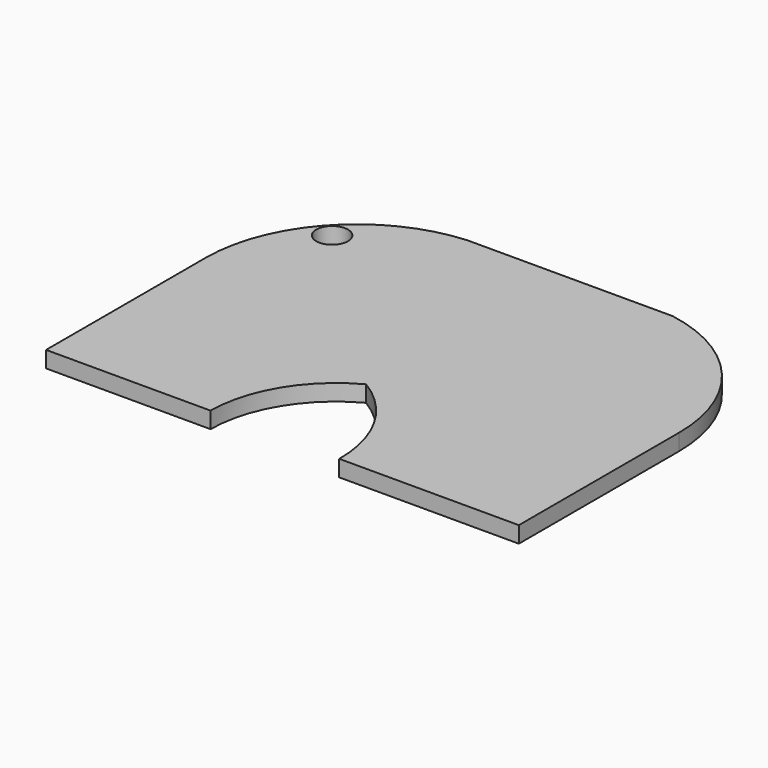
from build123d import *

# Parameters (mm, degrees)
F0_R     = 9.847408
F0_W     = 127.524496
F0_H     = 93.789673
F1_DEPTH = 10.16


with BuildPart() as f1:
    # F0 (on Top) → F1 (new body)
    with BuildSketch(Plane.XY):
        with BuildLine():
            ThreePointArc((-126.299633, 109.920687), (-139.400604, 83.911871), (-143.911943, 55.141368))
            Line((-143.911943, 55.141368), (-56.138069, 55.141368))
            Line((-56.138069, 55.141368), (-56.138069, 148.931041))
            ThreePointArc((-56.138069, 148.931041), (-95.592892, 137.292738), (-126.299633, 109.920687))
        make_face()
        with Locations((-110.678472, 111.924551)):
            Circle(F0_R, mode=Mode.SUBTRACT)
        with BuildLine():
            Line((-56.138069, 55.141368), (-143.911943, 55.141368))
            Line((-143.911943, 55.141368), (-143.911943, -68.781622))
            Line((-143.911943, -68.781622), (-41.689414, -68.781622))
            ThreePointArc((-41.689414, -68.781622), (-30.327603, -28.643107), (0, 0))
            ThreePointArc((0, 0), (28.519495, -29.543531), (38.738407, -69.314823))
            Line((38.738407, -69.314823), (150.395036, -69.314823))
            Line((150.395036, -69.314823), (150.395036, 55.141368))
            Line((150.395036, 55.141368), (71.386427, 55.141368))
            Line((71.386427, 55.141368), (-56.138069, 55.141368))
        make_face()
        with Locations((7.624179, 102.036204)):
            Rectangle(F0_W, F0_H)
        with BuildLine():
            Line((71.386427, 148.931041), (71.386427, 55.141368))
            Line((71.386427, 55.141368), (150.395036, 55.141368))
            ThreePointArc((150.395036, 55.141368), (128.010449, 116.457889), (71.386427, 148.931041))
        make_face()
    extrude(amount=-F1_DEPTH)


solid = f1.part
